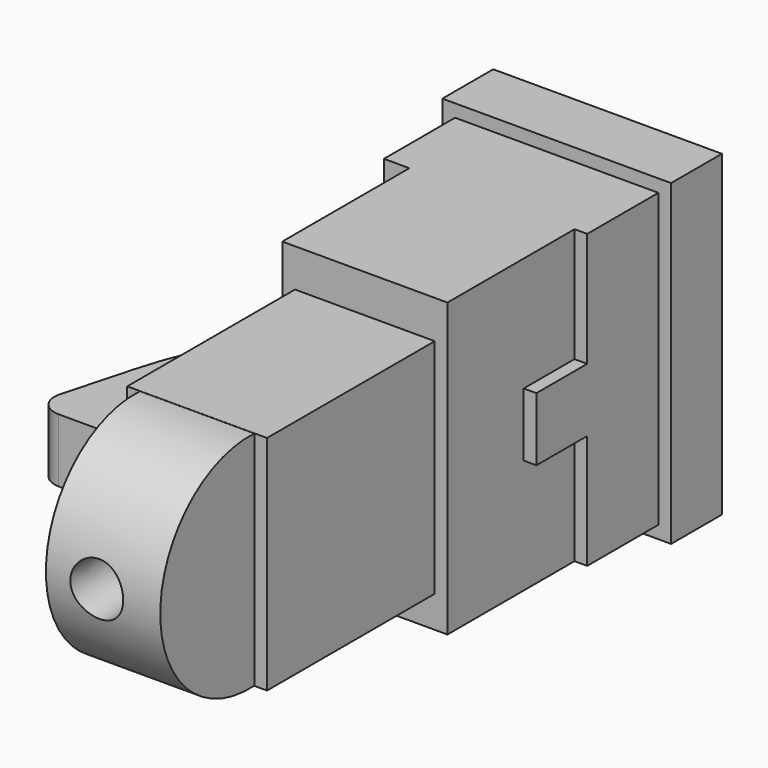
from build123d import *

# Parameters (mm, degrees)
CONE002_ROLL_ANGLE   = 90
BOX005_W             = 26
BOX005_H             = 50
BOX005_DEPTH         = 40
BOX001_W             = 32
BOX001_H             = 17
BOX001_DEPTH         = 46
BOX002_W             = 26
BOX002_H             = 12
BOX002_DEPTH         = 10
BOX003_W             = 26
BOX003_H             = 26
BOX003_DEPTH         = 46
BOX004_W             = 22
BOX004_H             = 36
BOX004_DEPTH         = 35
CYLINDER_R           = 17.5
CYLINDER_DEPTH       = 18
CYLINDER_PITCH_ANGLE = 90
SKETCH001_R          = 1.5
PAD_DEPTH            = 4.5
PAD_DEPTH_BACK       = 5.5
BOX_W                = 36
BOX_H                = 10
BOX_DEPTH            = 50


with BuildPart() as obj1:
    # Cone002 → Cone002 (revolve)
    with BuildSketch(Plane.XZ):
        Polygon((0, 0), (3.9, 0), (4.2, 11), (0, 11), align=None)
    revolve(axis=Axis((0, 0, 0), (0, 0, 1)))


with BuildPart() as obj1_1:
    # Cone002 roll: moved
    add(obj1.part.rotate(Axis((0, 0, 0), (1, 0, 0)), CONE002_ROLL_ANGLE))


with BuildPart() as obj1_2:
    # Cone002 placement: moved
    add(obj1_1.part.moved(Location((32, 35, 35.5))))


with BuildPart() as kopfloch:
    # Box005 → Box005 (new body)
    with BuildSketch(Plane(origin=(19, 81, 16), x_dir=(1, 0, 0), z_dir=(0, 0, 1))):
        with Locations((13, 25)):
            Rectangle(BOX005_W, BOX005_H)
    extrude(amount=BOX005_DEPTH)


with BuildPart() as obj2:
    # Box001 → Box001 (new body)
    with BuildSketch(Plane(origin=(16, 102, 13), x_dir=(1, 0, 0), z_dir=(0, 0, 1))):
        with Locations((16, 8.5)):
            Rectangle(BOX001_W, BOX001_H)
    extrude(amount=BOX001_DEPTH)


with BuildPart() as obj3:
    # Box002 → Box002 (new body)
    with BuildSketch(Plane(origin=(22, 92, 31), x_dir=(1, 0, 0), z_dir=(0, 0, 1))):
        with Locations((13, 6)):
            Rectangle(BOX002_W, BOX002_H)
    extrude(amount=BOX002_DEPTH)


with BuildPart() as obj4:
    # Box003 → Box003 (new body)
    with BuildSketch(Plane(origin=(20, 77, 13), x_dir=(1, 0, 0), z_dir=(0, 0, 1))):
        with Locations((13, 13)):
            Rectangle(BOX003_W, BOX003_H)
    extrude(amount=BOX003_DEPTH)


with BuildPart() as obj5:
    # Box004 → Box004 (new body)
    with BuildSketch(Plane(origin=(22, 44, 18), x_dir=(1, 0, 0), z_dir=(0, 0, 1))):
        with Locations((11, 18)):
            Rectangle(BOX004_W, BOX004_H)
    extrude(amount=BOX004_DEPTH)


with BuildPart() as obj6:
    # Cylinder → Cylinder (new body)
    with BuildSketch(Plane.XY):
        Circle(CYLINDER_R)
    extrude(amount=CYLINDER_DEPTH)


with BuildPart() as obj6_1:
    # Cylinder pitch: moved
    add(obj6.part.rotate(Axis((0, 0, 0), (0, 1, 0)), CYLINDER_PITCH_ANGLE))


with BuildPart() as obj6_2:
    # Cylinder placement: moved
    add(obj6_1.part.moved(Location((24, 43, 35.5))))


with BuildPart() as obj7:
    # Sketch001 → Pad (new body, two sides)
    with BuildSketch(Plane(origin=(22, 44, 36), x_dir=(1, 0, 0), z_dir=(0, 0, 1))) as pad_sk:
        with BuildLine():
            Line((1.5, 7.670836), (-16.920451, 7.670836))
            ThreePointArc((-20.14616, 11.888508), (-19.57535, 8.982708), (-16.920451, 7.670836))
            Line((-20.14616, 11.888508), (-17.171201, 22.851854))
            ThreePointArc((-12.625578, 34.600006), (-15.204729, 28.844459), (-17.171201, 22.851854))
            Line((-12.625578, 34.600006), (-6.240143, 47.065773))
            ThreePointArc((-6.240143, 47.065773), (-5.840064, 48.144871), (-5.704179, 49.287696))
            Line((-5.704179, 49.287696), (-5.704179, 58.874008))
            Line((-5.704179, 58.874008), (1.5, 58.874008))
            Line((1.5, 58.874008), (1.5, 7.670836))
        make_face()
        with Locations((-11.5, 17.644535)):
            Circle(SKETCH001_R, mode=Mode.SUBTRACT)
    extrude(amount=PAD_DEPTH)
    extrude(pad_sk.sketch, amount=-PAD_DEPTH_BACK)


with BuildPart() as kopf:
    # Box → Box (new body)
    with BuildSketch(Plane(origin=(14, 116, 11), x_dir=(1, 0, 0), z_dir=(0, 0, 1))):
        with Locations((18, 5)):
            Rectangle(BOX_W, BOX_H)
    extrude(amount=BOX_DEPTH)

    # Fusion: union obj2, obj3, obj4, obj5, obj6, obj7
    add(obj2.part)
    add(obj3.part)
    add(obj4.part)
    add(obj5.part)
    add(obj6_2.part)
    add(obj7.part)

    # Cut: cut kopfloch
    add(kopfloch.part, mode=Mode.SUBTRACT)

    # Cut001: cut obj1
    add(obj1_2.part, mode=Mode.SUBTRACT)


solid = kopf.part
